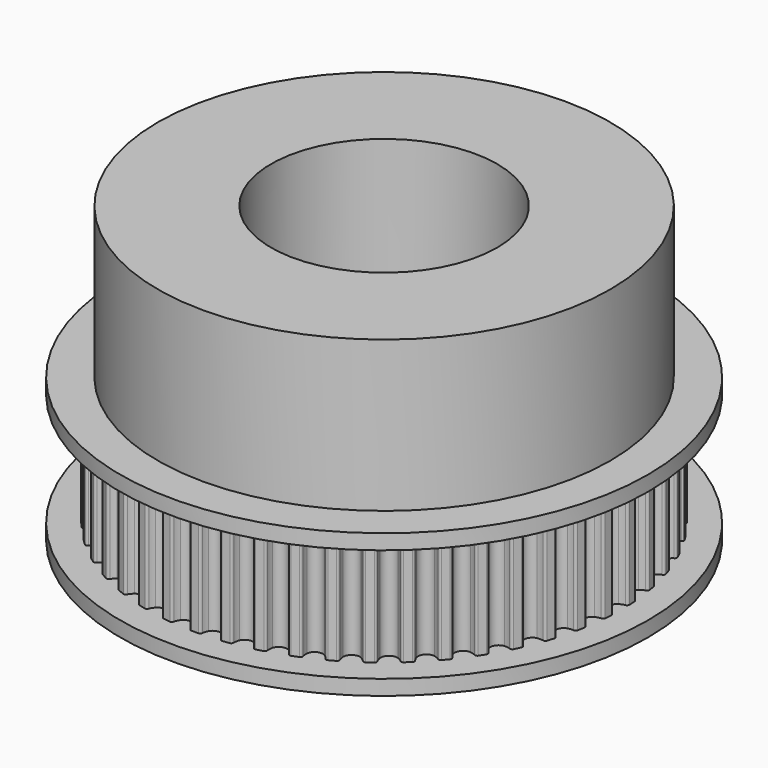
from build123d import *

# Parameters (mm, degrees)
SKETCHGEAR_R   = 7.5
PAD_DEPTH      = 7.5
SKETCHBASE_R   = 17.5
SKETCHBASE_R_2 = 7.5
PADBASE_DEPTH  = 1
SKETCHTOP_R    = 17.5
SKETCHTOP_R_2  = 7.5
PADTOP_DEPTH   = 1
SKETCH_R       = 15
SKETCH_R_2     = 7.5
PAD001_DEPTH   = 10


with BuildPart() as part:
    # SketchGear → Pad (new body)
    with BuildSketch(Plane.XY.offset(1)):
        with BuildLine():
            ThreePointArc((15.661494, -0.75), (15.61756, -0.643934), (15.511494, -0.6))
            ThreePointArc((15.511494, -0.6), (15.332205, -0.544218), (15.161494, -0.466025))
            ThreePointArc((15.161494, -0.466025), (14.911494, 0), (15.161494, 0.466025))
            ThreePointArc((15.161494, 0.466025), (15.332205, 0.544218), (15.511494, 0.6))
            ThreePointArc((15.511494, 0.6), (15.61756, 0.643934), (15.661494, 0.75))
            Line((15.661494, 0.75), (15.631999, 1.21882))
            ThreePointArc((15.631999, 1.21882), (15.575118, 1.318543), (15.464381, 1.348837))
            ThreePointArc((15.464381, 1.348837), (15.279515, 1.381709), (15.10035, 1.437888))
            ThreePointArc((15.10035, 1.437888), (14.793913, 1.868906), (14.983533, 2.36259))
            ThreePointArc((14.983533, 2.36259), (15.143098, 2.461561), (15.313982, 2.539375))
            ThreePointArc((15.313982, 2.539375), (15.413705, 2.596256), (15.443999, 2.706992))
            Line((15.443999, 2.706992), (15.355977, 3.168418))
            ThreePointArc((15.355977, 3.168418), (15.287046, 3.260226), (15.173386, 3.276402))
            ThreePointArc((15.173386, 3.276402), (14.985857, 3.285844), (14.801064, 3.319126))
            ThreePointArc((14.801064, 3.319126), (14.443022, 3.708338), (14.569272, 4.221895))
            ThreePointArc((14.569272, 4.221895), (14.715174, 4.340084), (14.874958, 4.438702))
            ThreePointArc((14.874958, 4.438702), (14.966766, 4.507633), (14.982942, 4.621293))
            Line((14.982942, 4.621293), (14.837783, 5.068048))
            ThreePointArc((14.837783, 5.068048), (14.757888, 5.150493), (14.643097, 5.152296))
            ThreePointArc((14.643097, 5.152296), (14.455864, 5.138161), (14.268356, 5.148019))
            ThreePointArc((14.268356, 5.148019), (13.864357, 5.489287), (13.925246, 6.014618))
            ThreePointArc((13.925246, 6.014618), (14.055184, 6.150162), (14.201348, 6.268028))
            ThreePointArc((14.201348, 6.268028), (14.283792, 6.347922), (14.285596, 6.462713))
            Line((14.285596, 6.462713), (14.085587, 6.887752))
            ThreePointArc((14.085587, 6.887752), (13.99599, 6.959533), (13.881878, 6.946935))
            ThreePointArc((13.881878, 6.946935), (13.697893, 6.909445), (13.510628, 6.895724))
            ThreePointArc((13.510628, 6.895724), (13.067042, 7.183667), (13.061609, 7.712487))
            ThreePointArc((13.061609, 7.712487), (13.173535, 7.863248), (13.303774, 7.998503))
            ThreePointArc((13.303774, 7.998503), (13.375555, 8.088101), (13.362957, 8.202212))
            Line((13.362957, 8.202212), (13.111254, 8.598833))
            ThreePointArc((13.111254, 8.598833), (13.013367, 8.658818), (12.901734, 8.632017))
            ThreePointArc((12.901734, 8.632017), (12.723898, 8.571763), (12.539829, 8.53468))
            ThreePointArc((12.539829, 8.53468), (12.063652, 8.764756), (11.991984, 9.288725))
            ThreePointArc((11.991984, 9.288725), (12.084132, 9.452325), (12.196391, 9.602838))
            ThreePointArc((12.196391, 9.602838), (12.256377, 9.700725), (12.229576, 9.812358))
            Line((12.229576, 9.812358), (11.930148, 10.174304))
            ThreePointArc((11.930148, 10.174304), (11.825515, 10.221548), (11.718121, 10.180967))
            ThreePointArc((11.718121, 10.180967), (11.549239, 10.098899), (11.37127, 10.039039))
            ThreePointArc((11.37127, 10.039039), (10.870012, 10.20762), (10.733237, 10.718475))
            ThreePointArc((10.733237, 10.718475), (10.804154, 10.892334), (10.896664, 11.05573))
            ThreePointArc((10.896664, 11.05573), (10.943908, 11.160363), (10.903328, 11.267757))
            Line((10.903328, 11.267757), (10.560897, 11.589321))
            ThreePointArc((10.560897, 11.589321), (10.451167, 11.623078), (10.349707, 11.569357))
            ThreePointArc((10.349707, 11.569357), (10.192442, 11.46677), (10.023379, 11.385076))
            ThreePointArc((10.023379, 11.385076), (9.504944, 11.489504), (9.305221, 11.979188))
            ThreePointArc((9.305221, 11.979188), (9.353789, 12.160565), (9.425091, 12.334266))
            ThreePointArc((9.425091, 12.334266), (9.458848, 12.443996), (9.405127, 12.545457))
            Line((9.405127, 12.545457), (9.025094, 12.821567))
            ThreePointArc((9.025094, 12.821567), (8.911999, 12.841305), (8.818071, 12.775292))
            ThreePointArc((8.818071, 12.775292), (8.674904, 12.653803), (8.517413, 12.551564))
            ThreePointArc((8.517413, 12.551564), (7.989978, 12.590191), (7.730457, 13.050982))
            ThreePointArc((7.730457, 13.050982), (7.755908, 13.237015), (7.804878, 13.418284))
            ThreePointArc((7.804878, 13.418284), (7.824616, 13.531379), (7.758602, 13.625307))
            Line((7.758602, 13.625307), (7.34696, 13.851609))
            ThreePointArc((7.34696, 13.851609), (7.232283, 13.857017), (7.147369, 13.779752))
            ThreePointArc((7.147369, 13.779752), (7.020558, 13.641278), (6.877123, 13.520106))
            ThreePointArc((6.877123, 13.520106), (6.349005, 13.492323), (6.033778, 13.916954))
            ThreePointArc((6.033778, 13.916954), (6.035713, 14.104711), (6.061577, 14.290687))
            ThreePointArc((6.061577, 14.290687), (6.066985, 14.405365), (5.98972, 14.490278))
            Line((5.98972, 14.490278), (5.55296, 14.663203))
            ThreePointArc((5.55296, 14.663203), (5.438509, 14.654196), (5.363949, 14.566898))
            ThreePointArc((5.363949, 14.566898), (5.255494, 14.413621), (5.128376, 14.275428))
            ThreePointArc((5.128376, 14.275428), (4.607905, 14.181674), (4.241943, 14.563448))
            ThreePointArc((4.241943, 14.563448), (4.22033, 14.749966), (4.222681, 14.937718))
            ThreePointArc((4.222681, 14.937718), (4.213674, 15.052169), (4.126376, 15.126729))
            Line((4.126376, 15.126729), (3.671387, 15.24355))
            ThreePointArc((3.671387, 15.24355), (3.558967, 15.220269), (3.495937, 15.124314))
            ThreePointArc((3.495937, 15.124314), (3.407547, 14.958654), (3.298752, 14.805618))
            ThreePointArc((3.298752, 14.805618), (2.794135, 14.647371), (2.38321, 14.980267))
            ThreePointArc((2.38321, 14.980267), (2.338391, 15.162606), (2.317192, 15.349172))
            ThreePointArc((2.317192, 15.349172), (2.293911, 15.461592), (2.197956, 15.524622))
            Line((2.197956, 15.524622), (1.731913, 15.583497))
            ThreePointArc((1.731913, 15.583497), (1.623298, 15.54631), (1.572791, 15.443212))
            ThreePointArc((1.572791, 15.443212), (1.505861, 15.267779), (1.417104, 15.102315))
            ThreePointArc((1.417104, 15.102315), (0.9363, 14.88207), (0.486892, 15.160839))
            ThreePointArc((0.486892, 15.160839), (0.419573, 15.336122), (0.375159, 15.51856))
            ThreePointArc((0.375159, 15.51856), (0.337971, 15.627176), (0.234873, 15.677683))
            Line((0.234873, 15.677683), (-0.234873, 15.677683))
            ThreePointArc((-0.234873, 15.677683), (-0.337971, 15.627176), (-0.375159, 15.51856))
            ThreePointArc((-0.375159, 15.51856), (-0.419573, 15.336122), (-0.486892, 15.160839))
            ThreePointArc((-0.486892, 15.160839), (-0.9363, 14.88207), (-1.417104, 15.102315))
            ThreePointArc((-1.417104, 15.102315), (-1.505861, 15.267779), (-1.572791, 15.443212))
            ThreePointArc((-1.572791, 15.443212), (-1.623298, 15.54631), (-1.731913, 15.583497))
            Line((-1.731913, 15.583497), (-2.197956, 15.524622))
            ThreePointArc((-2.197956, 15.524622), (-2.293911, 15.461592), (-2.317192, 15.349172))
            ThreePointArc((-2.317192, 15.349172), (-2.338391, 15.162606), (-2.38321, 14.980267))
            ThreePointArc((-2.38321, 14.980267), (-2.794135, 14.647371), (-3.298752, 14.805618))
            ThreePointArc((-3.298752, 14.805618), (-3.407547, 14.958654), (-3.495937, 15.124314))
            ThreePointArc((-3.495937, 15.124314), (-3.558967, 15.220269), (-3.671387, 15.24355))
            Line((-3.671387, 15.24355), (-4.126376, 15.126729))
            ThreePointArc((-4.126376, 15.126729), (-4.213674, 15.052169), (-4.222681, 14.937718))
            ThreePointArc((-4.222681, 14.937718), (-4.22033, 14.749966), (-4.241943, 14.563448))
            ThreePointArc((-4.241943, 14.563448), (-4.607905, 14.181674), (-5.128376, 14.275428))
            ThreePointArc((-5.128376, 14.275428), (-5.255494, 14.413621), (-5.363949, 14.566898))
            ThreePointArc((-5.363949, 14.566898), (-5.438509, 14.654196), (-5.55296, 14.663203))
            Line((-5.55296, 14.663203), (-5.98972, 14.490278))
            ThreePointArc((-5.98972, 14.490278), (-6.066985, 14.405365), (-6.061577, 14.290687))
            ThreePointArc((-6.061577, 14.290687), (-6.035713, 14.104711), (-6.033778, 13.916954))
            ThreePointArc((-6.033778, 13.916954), (-6.349005, 13.492323), (-6.877123, 13.520106))
            ThreePointArc((-6.877123, 13.520106), (-7.020558, 13.641278), (-7.147369, 13.779752))
            ThreePointArc((-7.147369, 13.779752), (-7.232283, 13.857017), (-7.34696, 13.851609))
            Line((-7.34696, 13.851609), (-7.758602, 13.625307))
            ThreePointArc((-7.758602, 13.625307), (-7.824616, 13.531379), (-7.804878, 13.418284))
            ThreePointArc((-7.804878, 13.418284), (-7.755908, 13.237015), (-7.730457, 13.050982))
            ThreePointArc((-7.730457, 13.050982), (-7.989978, 12.590191), (-8.517413, 12.551564))
            ThreePointArc((-8.517413, 12.551564), (-8.674904, 12.653803), (-8.818071, 12.775292))
            ThreePointArc((-8.818071, 12.775292), (-8.911999, 12.841305), (-9.025094, 12.821567))
            Line((-9.025094, 12.821567), (-9.405127, 12.545457))
            ThreePointArc((-9.405127, 12.545457), (-9.458848, 12.443996), (-9.425091, 12.334266))
            ThreePointArc((-9.425091, 12.334266), (-9.353789, 12.160565), (-9.305221, 11.979188))
            ThreePointArc((-9.305221, 11.979188), (-9.504944, 11.489504), (-10.023379, 11.385076))
            ThreePointArc((-10.023379, 11.385076), (-10.192442, 11.46677), (-10.349707, 11.569357))
            ThreePointArc((-10.349707, 11.569357), (-10.451167, 11.623078), (-10.560897, 11.589321))
            Line((-10.560897, 11.589321), (-10.903328, 11.267757))
            ThreePointArc((-10.903328, 11.267757), (-10.943908, 11.160363), (-10.896664, 11.05573))
            ThreePointArc((-10.896664, 11.05573), (-10.804154, 10.892334), (-10.733237, 10.718475))
            ThreePointArc((-10.733237, 10.718475), (-10.870012, 10.20762), (-11.37127, 10.039039))
            ThreePointArc((-11.37127, 10.039039), (-11.549239, 10.098899), (-11.718121, 10.180967))
            ThreePointArc((-11.718121, 10.180967), (-11.825515, 10.221548), (-11.930148, 10.174304))
            Line((-11.930148, 10.174304), (-12.229576, 9.812358))
            ThreePointArc((-12.229576, 9.812358), (-12.256377, 9.700725), (-12.196391, 9.602838))
            ThreePointArc((-12.196391, 9.602838), (-12.084132, 9.452325), (-11.991984, 9.288725))
            ThreePointArc((-11.991984, 9.288725), (-12.063652, 8.764756), (-12.539829, 8.53468))
            ThreePointArc((-12.539829, 8.53468), (-12.723898, 8.571763), (-12.901734, 8.632017))
            ThreePointArc((-12.901734, 8.632017), (-13.013367, 8.658818), (-13.111254, 8.598833))
            Line((-13.111254, 8.598833), (-13.362957, 8.202212))
            ThreePointArc((-13.362957, 8.202212), (-13.375555, 8.088101), (-13.303774, 7.998503))
            ThreePointArc((-13.303774, 7.998503), (-13.173535, 7.863248), (-13.061609, 7.712487))
            ThreePointArc((-13.061609, 7.712487), (-13.067042, 7.183667), (-13.510628, 6.895724))
            ThreePointArc((-13.510628, 6.895724), (-13.697893, 6.909445), (-13.881878, 6.946935))
            ThreePointArc((-13.881878, 6.946935), (-13.99599, 6.959533), (-14.085587, 6.887752))
            Line((-14.085587, 6.887752), (-14.285596, 6.462713))
            ThreePointArc((-14.285596, 6.462713), (-14.283792, 6.347922), (-14.201348, 6.268028))
            ThreePointArc((-14.201348, 6.268028), (-14.055184, 6.150162), (-13.925246, 6.014618))
            ThreePointArc((-13.925246, 6.014618), (-13.864357, 5.489287), (-14.268356, 5.148019))
            ThreePointArc((-14.268356, 5.148019), (-14.455864, 5.138161), (-14.643097, 5.152296))
            ThreePointArc((-14.643097, 5.152296), (-14.757888, 5.150493), (-14.837783, 5.068048))
            Line((-14.837783, 5.068048), (-14.982942, 4.621293))
            ThreePointArc((-14.982942, 4.621293), (-14.966766, 4.507633), (-14.874958, 4.438702))
            ThreePointArc((-14.874958, 4.438702), (-14.715174, 4.340084), (-14.569272, 4.221895))
            ThreePointArc((-14.569272, 4.221895), (-14.443022, 3.708338), (-14.801064, 3.319126))
            ThreePointArc((-14.801064, 3.319126), (-14.985857, 3.285844), (-15.173386, 3.276402))
            ThreePointArc((-15.173386, 3.276402), (-15.287046, 3.260226), (-15.355977, 3.168418))
            Line((-15.355977, 3.168418), (-15.443999, 2.706992))
            ThreePointArc((-15.443999, 2.706992), (-15.413705, 2.596256), (-15.313982, 2.539375))
            ThreePointArc((-15.313982, 2.539375), (-15.143098, 2.461561), (-14.983533, 2.36259))
            ThreePointArc((-14.983533, 2.36259), (-14.793913, 1.868906), (-15.10035, 1.437888))
            ThreePointArc((-15.10035, 1.437888), (-15.279515, 1.381709), (-15.464381, 1.348837))
            ThreePointArc((-15.464381, 1.348837), (-15.575118, 1.318543), (-15.631999, 1.21882))
            Line((-15.631999, 1.21882), (-15.661494, 0.75))
            ThreePointArc((-15.661494, 0.75), (-15.61756, 0.643934), (-15.511494, 0.6))
            ThreePointArc((-15.511494, 0.6), (-15.332205, 0.544218), (-15.161494, 0.466025))
            ThreePointArc((-15.161494, 0.466025), (-14.911494, 0), (-15.161494, -0.466025))
            ThreePointArc((-15.161494, -0.466025), (-15.332205, -0.544218), (-15.511494, -0.6))
            ThreePointArc((-15.511494, -0.6), (-15.61756, -0.643934), (-15.661494, -0.75))
            Line((-15.661494, -0.75), (-15.631999, -1.21882))
            ThreePointArc((-15.631999, -1.21882), (-15.575118, -1.318543), (-15.464381, -1.348837))
            ThreePointArc((-15.464381, -1.348837), (-15.279515, -1.381709), (-15.10035, -1.437888))
            ThreePointArc((-15.10035, -1.437888), (-14.793913, -1.868906), (-14.983533, -2.36259))
            ThreePointArc((-14.983533, -2.36259), (-15.143098, -2.461561), (-15.313982, -2.539375))
            ThreePointArc((-15.313982, -2.539375), (-15.413705, -2.596256), (-15.443999, -2.706992))
            Line((-15.443999, -2.706992), (-15.355977, -3.168418))
            ThreePointArc((-15.355977, -3.168418), (-15.287046, -3.260226), (-15.173386, -3.276402))
            ThreePointArc((-15.173386, -3.276402), (-14.985857, -3.285844), (-14.801064, -3.319126))
            ThreePointArc((-14.801064, -3.319126), (-14.443022, -3.708338), (-14.569272, -4.221895))
            ThreePointArc((-14.569272, -4.221895), (-14.715174, -4.340084), (-14.874958, -4.438702))
            ThreePointArc((-14.874958, -4.438702), (-14.966766, -4.507633), (-14.982942, -4.621293))
            Line((-14.982942, -4.621293), (-14.837783, -5.068048))
            ThreePointArc((-14.837783, -5.068048), (-14.757888, -5.150493), (-14.643097, -5.152296))
            ThreePointArc((-14.643097, -5.152296), (-14.455864, -5.138161), (-14.268356, -5.148019))
            ThreePointArc((-14.268356, -5.148019), (-13.864357, -5.489287), (-13.925246, -6.014618))
            ThreePointArc((-13.925246, -6.014618), (-14.055184, -6.150162), (-14.201348, -6.268028))
            ThreePointArc((-14.201348, -6.268028), (-14.283792, -6.347922), (-14.285596, -6.462713))
            Line((-14.285596, -6.462713), (-14.085587, -6.887752))
            ThreePointArc((-14.085587, -6.887752), (-13.99599, -6.959533), (-13.881878, -6.946935))
            ThreePointArc((-13.881878, -6.946935), (-13.697893, -6.909445), (-13.510628, -6.895724))
            ThreePointArc((-13.510628, -6.895724), (-13.067042, -7.183667), (-13.061609, -7.712487))
            ThreePointArc((-13.061609, -7.712487), (-13.173535, -7.863248), (-13.303774, -7.998503))
            ThreePointArc((-13.303774, -7.998503), (-13.375555, -8.088101), (-13.362957, -8.202212))
            Line((-13.362957, -8.202212), (-13.111254, -8.598833))
            ThreePointArc((-13.111254, -8.598833), (-13.013367, -8.658818), (-12.901734, -8.632017))
            ThreePointArc((-12.901734, -8.632017), (-12.723898, -8.571763), (-12.539829, -8.53468))
            ThreePointArc((-12.539829, -8.53468), (-12.063652, -8.764756), (-11.991984, -9.288725))
            ThreePointArc((-11.991984, -9.288725), (-12.084132, -9.452325), (-12.196391, -9.602838))
            ThreePointArc((-12.196391, -9.602838), (-12.256377, -9.700725), (-12.229576, -9.812358))
            Line((-12.229576, -9.812358), (-11.930148, -10.174304))
            ThreePointArc((-11.930148, -10.174304), (-11.825515, -10.221548), (-11.718121, -10.180967))
            ThreePointArc((-11.718121, -10.180967), (-11.549239, -10.098899), (-11.37127, -10.039039))
            ThreePointArc((-11.37127, -10.039039), (-10.870012, -10.20762), (-10.733237, -10.718475))
            ThreePointArc((-10.733237, -10.718475), (-10.804154, -10.892334), (-10.896664, -11.05573))
            ThreePointArc((-10.896664, -11.05573), (-10.943908, -11.160363), (-10.903328, -11.267757))
            Line((-10.903328, -11.267757), (-10.560897, -11.589321))
            ThreePointArc((-10.560897, -11.589321), (-10.451167, -11.623078), (-10.349707, -11.569357))
            ThreePointArc((-10.349707, -11.569357), (-10.192442, -11.46677), (-10.023379, -11.385076))
            ThreePointArc((-10.023379, -11.385076), (-9.504944, -11.489504), (-9.305221, -11.979188))
            ThreePointArc((-9.305221, -11.979188), (-9.353789, -12.160565), (-9.425091, -12.334266))
            ThreePointArc((-9.425091, -12.334266), (-9.458848, -12.443996), (-9.405127, -12.545457))
            Line((-9.405127, -12.545457), (-9.025094, -12.821567))
            ThreePointArc((-9.025094, -12.821567), (-8.911999, -12.841305), (-8.818071, -12.775292))
            ThreePointArc((-8.818071, -12.775292), (-8.674904, -12.653803), (-8.517413, -12.551564))
            ThreePointArc((-8.517413, -12.551564), (-7.989978, -12.590191), (-7.730457, -13.050982))
            ThreePointArc((-7.730457, -13.050982), (-7.755908, -13.237015), (-7.804878, -13.418284))
            ThreePointArc((-7.804878, -13.418284), (-7.824616, -13.531379), (-7.758602, -13.625307))
            Line((-7.758602, -13.625307), (-7.34696, -13.851609))
            ThreePointArc((-7.34696, -13.851609), (-7.232283, -13.857017), (-7.147369, -13.779752))
            ThreePointArc((-7.147369, -13.779752), (-7.020558, -13.641278), (-6.877123, -13.520106))
            ThreePointArc((-6.877123, -13.520106), (-6.349005, -13.492323), (-6.033778, -13.916954))
            ThreePointArc((-6.033778, -13.916954), (-6.035713, -14.104711), (-6.061577, -14.290687))
            ThreePointArc((-6.061577, -14.290687), (-6.066985, -14.405365), (-5.98972, -14.490278))
            Line((-5.98972, -14.490278), (-5.55296, -14.663203))
            ThreePointArc((-5.55296, -14.663203), (-5.438509, -14.654196), (-5.363949, -14.566898))
            ThreePointArc((-5.363949, -14.566898), (-5.255494, -14.413621), (-5.128376, -14.275428))
            ThreePointArc((-5.128376, -14.275428), (-4.607905, -14.181674), (-4.241943, -14.563448))
            ThreePointArc((-4.241943, -14.563448), (-4.22033, -14.749966), (-4.222681, -14.937718))
            ThreePointArc((-4.222681, -14.937718), (-4.213674, -15.052169), (-4.126376, -15.126729))
            Line((-4.126376, -15.126729), (-3.671387, -15.24355))
            ThreePointArc((-3.671387, -15.24355), (-3.558967, -15.220269), (-3.495937, -15.124314))
            ThreePointArc((-3.495937, -15.124314), (-3.407547, -14.958654), (-3.298752, -14.805618))
            ThreePointArc((-3.298752, -14.805618), (-2.794135, -14.647371), (-2.38321, -14.980267))
            ThreePointArc((-2.38321, -14.980267), (-2.338391, -15.162606), (-2.317192, -15.349172))
            ThreePointArc((-2.317192, -15.349172), (-2.293911, -15.461592), (-2.197956, -15.524622))
            Line((-2.197956, -15.524622), (-1.731913, -15.583497))
            ThreePointArc((-1.731913, -15.583497), (-1.623298, -15.54631), (-1.572791, -15.443212))
            ThreePointArc((-1.572791, -15.443212), (-1.505861, -15.267779), (-1.417104, -15.102315))
            ThreePointArc((-1.417104, -15.102315), (-0.9363, -14.88207), (-0.486892, -15.160839))
            ThreePointArc((-0.486892, -15.160839), (-0.419573, -15.336122), (-0.375159, -15.51856))
            ThreePointArc((-0.375159, -15.51856), (-0.337971, -15.627176), (-0.234873, -15.677683))
            Line((-0.234873, -15.677683), (0.234873, -15.677683))
            ThreePointArc((0.234873, -15.677683), (0.337971, -15.627176), (0.375159, -15.51856))
            ThreePointArc((0.375159, -15.51856), (0.419573, -15.336122), (0.486892, -15.160839))
            ThreePointArc((0.486892, -15.160839), (0.9363, -14.88207), (1.417104, -15.102315))
            ThreePointArc((1.417104, -15.102315), (1.505861, -15.267779), (1.572791, -15.443212))
            ThreePointArc((1.572791, -15.443212), (1.623298, -15.54631), (1.731913, -15.583497))
            Line((1.731913, -15.583497), (2.197956, -15.524622))
            ThreePointArc((2.197956, -15.524622), (2.293911, -15.461592), (2.317192, -15.349172))
            ThreePointArc((2.317192, -15.349172), (2.338391, -15.162606), (2.38321, -14.980267))
            ThreePointArc((2.38321, -14.980267), (2.794135, -14.647371), (3.298752, -14.805618))
            ThreePointArc((3.298752, -14.805618), (3.407547, -14.958654), (3.495937, -15.124314))
            ThreePointArc((3.495937, -15.124314), (3.558967, -15.220269), (3.671387, -15.24355))
            Line((3.671387, -15.24355), (4.126376, -15.126729))
            ThreePointArc((4.126376, -15.126729), (4.213674, -15.052169), (4.222681, -14.937718))
            ThreePointArc((4.222681, -14.937718), (4.22033, -14.749966), (4.241943, -14.563448))
            ThreePointArc((4.241943, -14.563448), (4.607905, -14.181674), (5.128376, -14.275428))
            ThreePointArc((5.128376, -14.275428), (5.255494, -14.413621), (5.363949, -14.566898))
            ThreePointArc((5.363949, -14.566898), (5.438509, -14.654196), (5.55296, -14.663203))
            Line((5.55296, -14.663203), (5.98972, -14.490278))
            ThreePointArc((5.98972, -14.490278), (6.066985, -14.405365), (6.061577, -14.290687))
            ThreePointArc((6.061577, -14.290687), (6.035713, -14.104711), (6.033778, -13.916954))
            ThreePointArc((6.033778, -13.916954), (6.349005, -13.492323), (6.877123, -13.520106))
            ThreePointArc((6.877123, -13.520106), (7.020558, -13.641278), (7.147369, -13.779752))
            ThreePointArc((7.147369, -13.779752), (7.232283, -13.857017), (7.34696, -13.851609))
            Line((7.34696, -13.851609), (7.758602, -13.625307))
            ThreePointArc((7.758602, -13.625307), (7.824616, -13.531379), (7.804878, -13.418284))
            ThreePointArc((7.804878, -13.418284), (7.755908, -13.237015), (7.730457, -13.050982))
            ThreePointArc((7.730457, -13.050982), (7.989978, -12.590191), (8.517413, -12.551564))
            ThreePointArc((8.517413, -12.551564), (8.674904, -12.653803), (8.818071, -12.775292))
            ThreePointArc((8.818071, -12.775292), (8.911999, -12.841305), (9.025094, -12.821567))
            Line((9.025094, -12.821567), (9.405127, -12.545457))
            ThreePointArc((9.405127, -12.545457), (9.458848, -12.443996), (9.425091, -12.334266))
            ThreePointArc((9.425091, -12.334266), (9.353789, -12.160565), (9.305221, -11.979188))
            ThreePointArc((9.305221, -11.979188), (9.504944, -11.489504), (10.023379, -11.385076))
            ThreePointArc((10.023379, -11.385076), (10.192442, -11.46677), (10.349707, -11.569357))
            ThreePointArc((10.349707, -11.569357), (10.451167, -11.623078), (10.560897, -11.589321))
            Line((10.560897, -11.589321), (10.903328, -11.267757))
            ThreePointArc((10.903328, -11.267757), (10.943908, -11.160363), (10.896664, -11.05573))
            ThreePointArc((10.896664, -11.05573), (10.804154, -10.892334), (10.733237, -10.718475))
            ThreePointArc((10.733237, -10.718475), (10.870012, -10.20762), (11.37127, -10.039039))
            ThreePointArc((11.37127, -10.039039), (11.549239, -10.098899), (11.718121, -10.180967))
            ThreePointArc((11.718121, -10.180967), (11.825515, -10.221548), (11.930148, -10.174304))
            Line((11.930148, -10.174304), (12.229576, -9.812358))
            ThreePointArc((12.229576, -9.812358), (12.256377, -9.700725), (12.196391, -9.602838))
            ThreePointArc((12.196391, -9.602838), (12.084132, -9.452325), (11.991984, -9.288725))
            ThreePointArc((11.991984, -9.288725), (12.063652, -8.764756), (12.539829, -8.53468))
            ThreePointArc((12.539829, -8.53468), (12.723898, -8.571763), (12.901734, -8.632017))
            ThreePointArc((12.901734, -8.632017), (13.013367, -8.658818), (13.111254, -8.598833))
            Line((13.111254, -8.598833), (13.362957, -8.202212))
            ThreePointArc((13.362957, -8.202212), (13.375555, -8.088101), (13.303774, -7.998503))
            ThreePointArc((13.303774, -7.998503), (13.173535, -7.863248), (13.061609, -7.712487))
            ThreePointArc((13.061609, -7.712487), (13.067042, -7.183667), (13.510628, -6.895724))
            ThreePointArc((13.510628, -6.895724), (13.697893, -6.909445), (13.881878, -6.946935))
            ThreePointArc((13.881878, -6.946935), (13.99599, -6.959533), (14.085587, -6.887752))
            Line((14.085587, -6.887752), (14.285596, -6.462713))
            ThreePointArc((14.285596, -6.462713), (14.283792, -6.347922), (14.201348, -6.268028))
            ThreePointArc((14.201348, -6.268028), (14.055184, -6.150162), (13.925246, -6.014618))
            ThreePointArc((13.925246, -6.014618), (13.864357, -5.489287), (14.268356, -5.148019))
            ThreePointArc((14.268356, -5.148019), (14.455864, -5.138161), (14.643097, -5.152296))
            ThreePointArc((14.643097, -5.152296), (14.757888, -5.150493), (14.837783, -5.068048))
            Line((14.837783, -5.068048), (14.982942, -4.621293))
            ThreePointArc((14.982942, -4.621293), (14.966766, -4.507633), (14.874958, -4.438702))
            ThreePointArc((14.874958, -4.438702), (14.715174, -4.340084), (14.569272, -4.221895))
            ThreePointArc((14.569272, -4.221895), (14.443022, -3.708338), (14.801064, -3.319126))
            ThreePointArc((14.801064, -3.319126), (14.985857, -3.285844), (15.173386, -3.276402))
            ThreePointArc((15.173386, -3.276402), (15.287046, -3.260226), (15.355977, -3.168418))
            Line((15.355977, -3.168418), (15.443999, -2.706992))
            ThreePointArc((15.443999, -2.706992), (15.413705, -2.596256), (15.313982, -2.539375))
            ThreePointArc((15.313982, -2.539375), (15.143098, -2.461561), (14.983533, -2.36259))
            ThreePointArc((14.983533, -2.36259), (14.793913, -1.868906), (15.10035, -1.437888))
            ThreePointArc((15.10035, -1.437888), (15.279515, -1.381709), (15.464381, -1.348837))
            ThreePointArc((15.464381, -1.348837), (15.575118, -1.318543), (15.631999, -1.21882))
            Line((15.631999, -1.21882), (15.661494, -0.75))
        make_face()
        Circle(SKETCHGEAR_R, mode=Mode.SUBTRACT)
    extrude(amount=PAD_DEPTH)

    # SketchBase → PadBase (join)
    with BuildSketch(Plane.XY):
        Circle(SKETCHBASE_R)
        Circle(SKETCHBASE_R_2, mode=Mode.SUBTRACT)
    extrude(amount=PADBASE_DEPTH)

    # SketchTop → PadTop (join)
    with BuildSketch(Plane.XY.offset(8.5)):
        Circle(SKETCHTOP_R)
        Circle(SKETCHTOP_R_2, mode=Mode.SUBTRACT)
    extrude(amount=PADTOP_DEPTH)

    # Sketch (on Face306 of PadTop) → Pad001 (join)
    with BuildSketch(Plane.XY.offset(9.5)):
        Circle(SKETCH_R)
        Circle(SKETCH_R_2, mode=Mode.SUBTRACT)
    extrude(amount=PAD001_DEPTH)


solid = part.part
